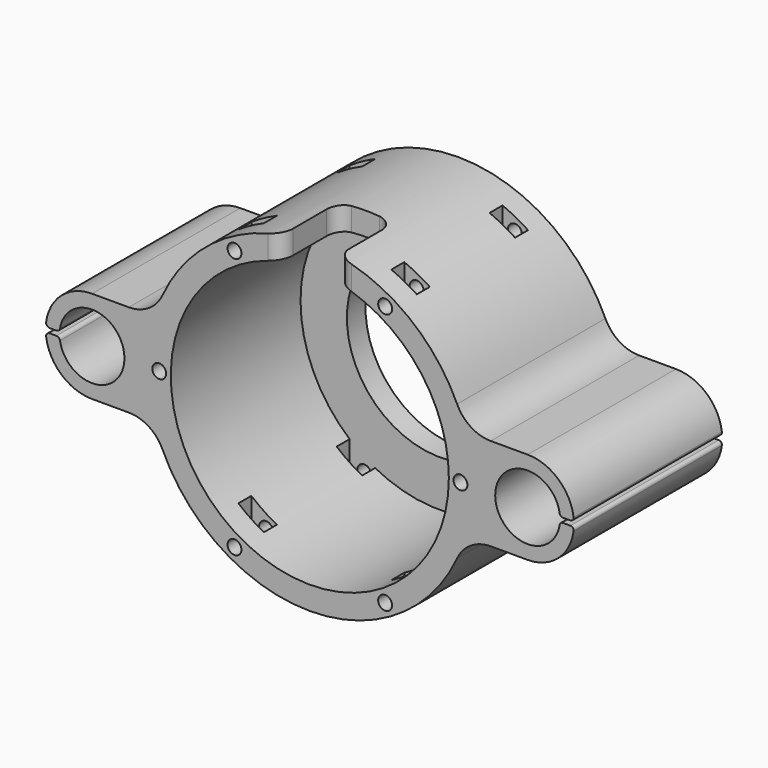
from build123d import *

# Parameters (mm, degrees)
F0_R           = 30
F1_DEPTH       = 35
F0_R_2         = 20
F2_DEPTH       = 5
F5_D           = 3
F4_W           = 12
F4_H           = 10.6380879879
F6_DEPTH       = 15
F7_R           = 3
F8_R           = 0.7
F9_R           = 0.8
F10_W          = 5.5
F10_H          = 3.5
F11_DEPTH      = 50
F11_DEPTH_BACK = 50


with BuildPart() as f1:
    # F0 (on Front) → F1 (new body)
    with BuildSketch(Plane.XZ):
        with BuildLine():
            ThreePointArc((-42.3231782953, 0.5), (-28.3410582734, 0), (-42.3231782953, -0.5))
            Line((-42.3231782953, -0.5), (-45.3285504511, -0.5))
            ThreePointArc((-45.3285504511, -0.5), (-42.2330826494, -7.2456883731), (-35.3410582734, -10))
            Line((-35.3410582734, -10), (-27.3923066529, -10))
            ThreePointArc((-27.3923066529, -10), (-23.0789957248, -11.2623929443), (-20.1269581172, -14.6511627907))
            ThreePointArc((-20.1269581172, -14.6511627907), (11.6589417266, -35), (43.4448415704, -14.6511627907))
            ThreePointArc((43.4448415704, -14.6511627907), (46.396879178, -11.2623929443), (50.7101901061, -10))
            Line((50.7101901061, -10), (58.6589417266, -10))
            ThreePointArc((58.6589417266, -10), (65.5509661026, -7.2456883731), (68.6464339043, -0.5))
            Line((68.6464339043, -0.5), (65.6410617485, -0.5))
            ThreePointArc((65.6410617485, -0.5), (51.6589417266, 0), (65.6410617485, 0.5))
            Line((65.6410617485, 0.5), (68.6464339043, 0.5))
            ThreePointArc((68.6464339043, 0.5), (65.5509661026, 7.2456883731), (58.6589417266, 10))
            Line((58.6589417266, 10), (50.7101901061, 10))
            ThreePointArc((50.7101901061, 10), (46.396879178, 11.2623929443), (43.4448415704, 14.6511627907))
            ThreePointArc((43.4448415704, 14.6511627907), (11.6589417266, 35), (-20.1269581172, 14.6511627907))
            ThreePointArc((-20.1269581172, 14.6511627907), (-23.0789957248, 11.2623929443), (-27.3923066529, 10))
            Line((-27.3923066529, 10), (-35.3410582734, 10))
            ThreePointArc((-35.3410582734, 10), (-42.2330826494, 7.2456883731), (-45.3285504511, 0.5))
            Line((-45.3285504511, 0.5), (-42.3231782953, 0.5))
        make_face()
        with Locations((11.6589417266, 0)):
            Circle(F0_R, mode=Mode.SUBTRACT)
    extrude(amount=F1_DEPTH)

    # F0 (on Front) → F2 (join)
    with BuildSketch(Plane.XZ):
        with BuildLine():
            ThreePointArc((-42.3231782953, 0.5), (-28.3410582734, 0), (-42.3231782953, -0.5))
            Line((-42.3231782953, -0.5), (-45.3285504511, -0.5))
            ThreePointArc((-45.3285504511, -0.5), (-42.2330826494, -7.2456883731), (-35.3410582734, -10))
            Line((-35.3410582734, -10), (-27.3923066529, -10))
            ThreePointArc((-27.3923066529, -10), (-23.0789957248, -11.2623929443), (-20.1269581172, -14.6511627907))
            ThreePointArc((-20.1269581172, -14.6511627907), (11.6589417266, -35), (43.4448415704, -14.6511627907))
            ThreePointArc((43.4448415704, -14.6511627907), (46.396879178, -11.2623929443), (50.7101901061, -10))
            Line((50.7101901061, -10), (58.6589417266, -10))
            ThreePointArc((58.6589417266, -10), (65.5509661026, -7.2456883731), (68.6464339043, -0.5))
            Line((68.6464339043, -0.5), (65.6410617485, -0.5))
            ThreePointArc((65.6410617485, -0.5), (51.6589417266, 0), (65.6410617485, 0.5))
            Line((65.6410617485, 0.5), (68.6464339043, 0.5))
            ThreePointArc((68.6464339043, 0.5), (65.5509661026, 7.2456883731), (58.6589417266, 10))
            Line((58.6589417266, 10), (50.7101901061, 10))
            ThreePointArc((50.7101901061, 10), (46.396879178, 11.2623929443), (43.4448415704, 14.6511627907))
            ThreePointArc((43.4448415704, 14.6511627907), (11.6589417266, 35), (-20.1269581172, 14.6511627907))
            ThreePointArc((-20.1269581172, 14.6511627907), (-23.0789957248, 11.2623929443), (-27.3923066529, 10))
            Line((-27.3923066529, 10), (-35.3410582734, 10))
            ThreePointArc((-35.3410582734, 10), (-42.2330826494, 7.2456883731), (-45.3285504511, 0.5))
            Line((-45.3285504511, 0.5), (-42.3231782953, 0.5))
        make_face()
        with Locations((11.6589417266, 0)):
            Circle(F0_R, mode=Mode.SUBTRACT)
        with Locations((11.6589417266, 0)):
            Circle(F0_R)
        with Locations((11.6589417266, 0)):
            Circle(F0_R_2, mode=Mode.SUBTRACT)
    extrude(amount=-F2_DEPTH)

    # F5 (through all)
    with Locations(Plane.XZ.offset(35)):
        with Locations((-4.5905371539, 28.1467282284), (27.910505085, 28.1467282284), (44.1610262045, 0), (27.910505085, -28.1467282284), (-4.5905371539, -28.1467282284), (-20.8410582734, 0)):
            Hole(F5_D / 2)

    # F4 (on offset) → F6 (cut)
    with BuildSketch(Plane.XZ.offset(35)):
        with Locations((11.6610262045, 32.1714654565)):
            Rectangle(F4_W, F4_H)
    extrude(amount=-F6_DEPTH, mode=Mode.SUBTRACT)

    # F7
    f7_edges = [f1.edges().sort_by_distance(p)[0] for p in [
        (5.661026, -20, 31.938272),
        (17.661026, -20, 31.937484),
        (5.661026, -35, 31.938272),
        (17.661026, -35, 31.937484),
    ]]
    fillet(f7_edges, radius=F7_R)

    # F8
    f8_edges = [f1.edges().sort_by_distance(p)[0] for p in [
        (68.646434, -15, 0.5),
        (68.646434, -15, -0.5),
        (65.641062, -15, -0.5),
        (65.641062, -15, 0.5),
    ]]
    fillet(f8_edges, radius=F8_R)

    # F9
    f9_edges = [f1.edges().sort_by_distance(p)[0] for p in [
        (-42.323178, -15, 0.5),
        (-42.323178, -15, -0.5),
        (-45.32855, -15, 0.5),
        (-45.32855, -15, -0.5),
    ]]
    fillet(f9_edges, radius=F9_R)

    # F10 (on Top) → F11 (cut, two sides)
    with BuildSketch(Plane.XY) as f11_sk:
        with Locations((-5, -28.25)):
            Rectangle(F10_W, F10_H)
        with Locations((28, -28.25)):
            Rectangle(F10_W, F10_H)
        with Locations((-5, -1.75)):
            Rectangle(F10_W, F10_H)
        with Locations((28, -1.75)):
            Rectangle(F10_W, F10_H)
    extrude(amount=F11_DEPTH, mode=Mode.SUBTRACT)
    extrude(f11_sk.sketch, amount=-F11_DEPTH_BACK, mode=Mode.SUBTRACT)


solid = f1.part
